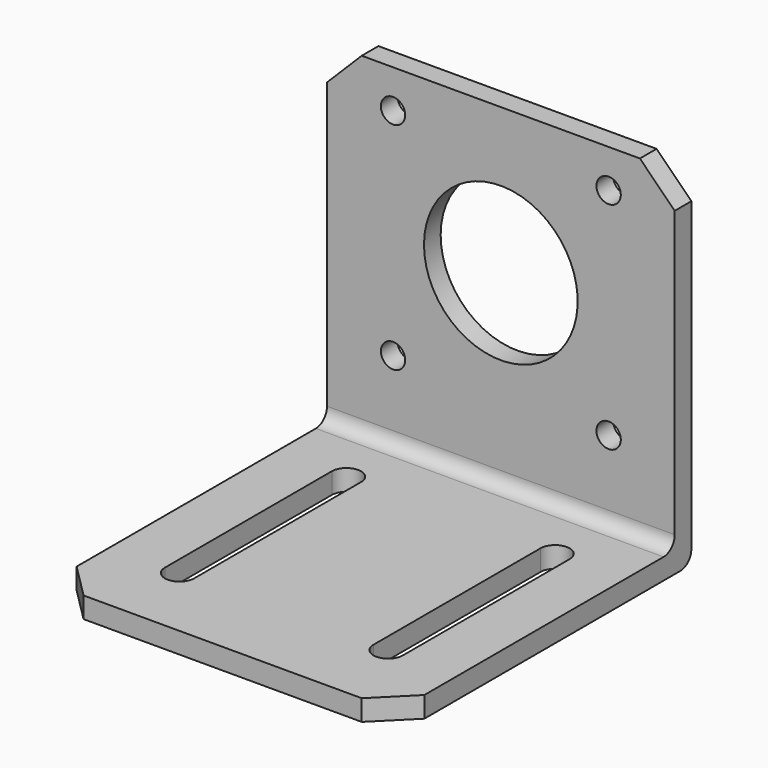
from build123d import *

# Parameters (mm, degrees)
SKETCH_W      = 50
SKETCH_H      = 53
PAD_DEPTH     = 3
SKETCH001_W   = 50
SKETCH001_H   = 3
PAD001_DEPTH  = 48
SKETCH002_R   = 11.05
SKETCH002_R_2 = 1.75
POCKET_DEPTH  = 53.001
FILLET_R      = 2
CHAMFER_SIZE  = 5


with BuildPart() as part:
    # Sketch → Pad (new body)
    with BuildSketch(Plane.XY):
        Rectangle(SKETCH_W, SKETCH_H)
        with BuildLine():
            ThreePointArc((-17.1, -15.5), (-15, -17.6), (-12.9, -15.5))
            Line((-12.9, -15.5), (-12.9, 14.5))
            ThreePointArc((-12.9, 14.5), (-15, 16.6), (-17.1, 14.5))
            Line((-17.1, -15.5), (-17.1, 14.5))
        make_face(mode=Mode.SUBTRACT)
        with BuildLine():
            ThreePointArc((12.9, -15.5), (15, -17.6), (17.1, -15.5))
            Line((17.1, -15.5), (17.1, 14.5))
            ThreePointArc((17.1, 14.5), (15, 16.6), (12.9, 14.5))
            Line((12.9, -15.5), (12.9, 14.5))
        make_face(mode=Mode.SUBTRACT)
    extrude(amount=PAD_DEPTH)

    # Sketch001 → Pad001 (new body)
    with BuildSketch(Plane.XY.offset(3)):
        with Locations((0, 25)):
            Rectangle(SKETCH001_W, SKETCH001_H)
    extrude(amount=PAD001_DEPTH)

    # Sketch002 → Pocket (cut, through all)
    with BuildSketch(Plane(origin=(0, 26.5, 0), x_dir=(-1, 0, 0), z_dir=(0, 1, 0))):
        with Locations((0, 30)):
            Circle(SKETCH002_R)
        with Locations((-15.5, 45.5)):
            Circle(SKETCH002_R_2)
        with Locations((15.5, 45.5)):
            Circle(SKETCH002_R_2)
        with Locations((-15.5, 14.5)):
            Circle(SKETCH002_R_2)
        with Locations((15.5, 14.5)):
            Circle(SKETCH002_R_2)
    extrude(amount=-POCKET_DEPTH, mode=Mode.SUBTRACT)

    # Fillet
    fillet_edges = [part.edges().sort_by_distance(p)[0] for p in [
        (0, 26.5, 0),
        (0, 23.5, 3),
    ]]
    fillet(fillet_edges, radius=FILLET_R)

    # Chamfer
    chamfer_edges = [part.edges().sort_by_distance(p)[0] for p in [
        (25, 25, 51),
        (-25, 25, 51),
        (-25, -26.5, 1.5),
        (25, -26.5, 1.5),
    ]]
    chamfer(chamfer_edges, length=CHAMFER_SIZE)


solid = part.part
